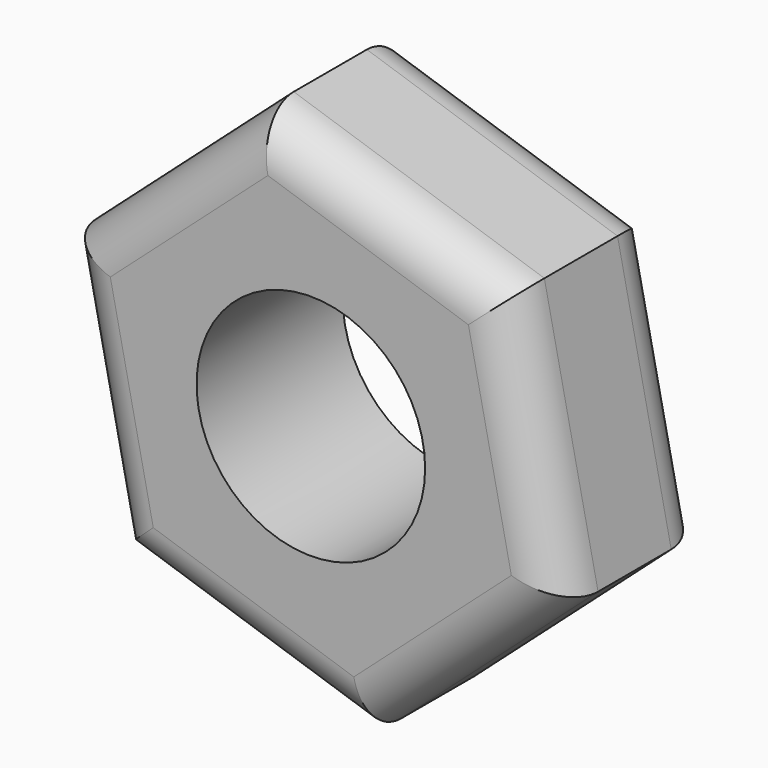
from build123d import *

# Parameters (mm, degrees)
F3_R = 0.5
F4_R = 1.25


with BuildPart() as f2:
    # F2: sweep along a path in F1
    with BuildLine(Plane.XY) as f2_path:
        Line((0, 0), (0, 2))
    # F0 (on Front) → F2 (sweep)
    with BuildSketch(Plane.XZ):
        Polygon((-0.5872089498, 2.8263968197), (-2.741335922, 0.904660542), (-2.1541269722, -1.9217362777), (0.5872089498, -2.8263968197), (2.741335922, -0.904660542), (2.1541269722, 1.9217362777), align=None)
    sweep(path=f2_path.line)

    # F3
    f3_edges = [f2.edges().sort_by_distance(p)[0] for p in [
        (-2.447731, 0, -0.508538),
        (-1.664272, 0, 1.865529),
        (0.783459, 0, 2.374067),
        (2.447731, 0, 0.508538),
        (1.664272, 0, -1.865529),
        (-0.783459, 0, -2.374067),
        (-1.664272, 2, 1.865529),
        (0.783459, 2, 2.374067),
        (2.447731, 2, 0.508538),
        (1.664272, 2, -1.865529),
        (-0.783459, 2, -2.374067),
        (-2.447731, 2, -0.508538),
    ]]
    fillet(f3_edges, radius=F3_R)

    # F6: sweep along a path in F5
    with BuildLine(Plane.XY) as f6_path:
        Line((0, -0.6415657117), (0, 2.5134647731))
    # F4 (on Front) → F6 (sweep, cut)
    with BuildSketch(Plane.XZ):
        Circle(F4_R)
    sweep(path=f6_path.line, mode=Mode.SUBTRACT)


solid = f2.part
